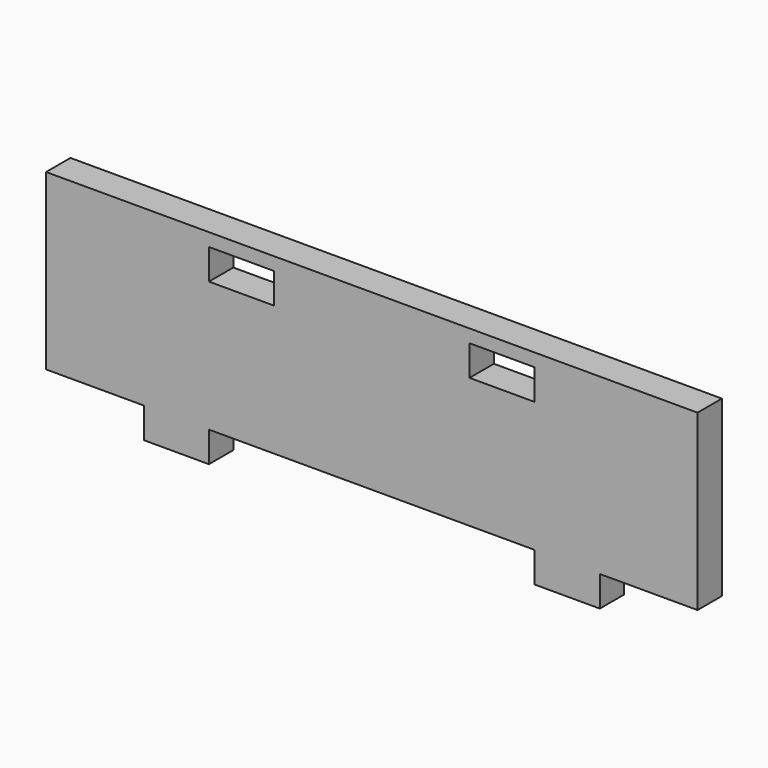
from build123d import *

# Parameters (mm, degrees)
F0_W     = 6.35
F0_H     = 2.9718
F1_DEPTH = 2.9718


with BuildPart() as f1:
    # F0 (on Front) → F1 (new body)
    with BuildSketch(Plane.XZ):
        Polygon((31.75, -8.4709), (31.75, 8.4709), (-31.75, 8.4709), (-31.75, -8.4709), (-22.225, -8.4709), (-15.875, -8.4709), (15.875, -8.4709), (22.225, -8.4709), align=None)
        with Locations((-12.7, 5.715)):
            Rectangle(F0_W, F0_H, mode=Mode.SUBTRACT)
        with Locations((12.7, 5.715)):
            Rectangle(F0_W, F0_H, mode=Mode.SUBTRACT)
        with Locations((19.05, -9.9568)):
            Rectangle(F0_W, F0_H)
        with Locations((-19.05, -9.9568)):
            Rectangle(F0_W, F0_H)
    extrude(amount=F1_DEPTH)


solid = f1.part
